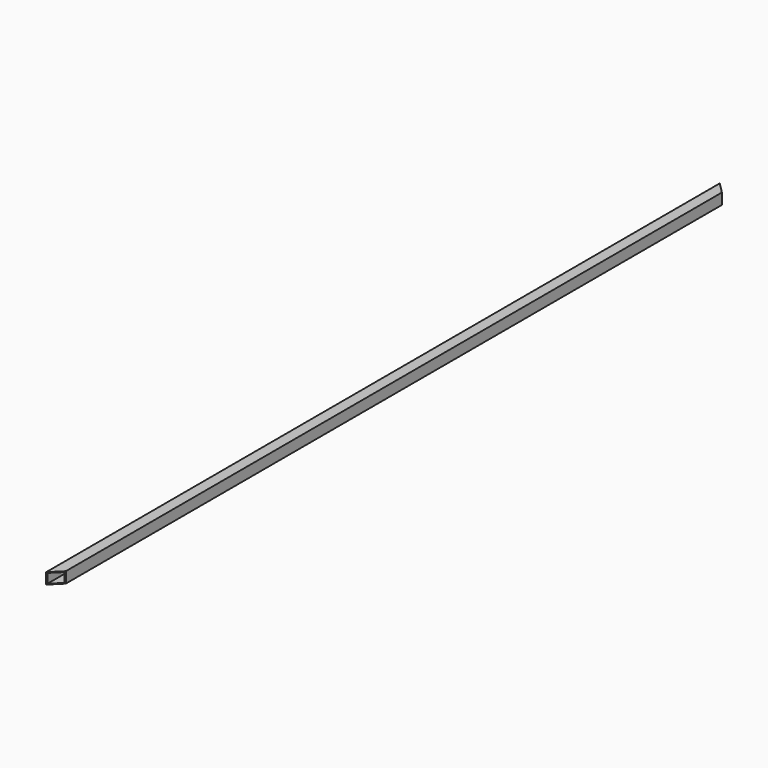
from build123d import *

# Parameters (mm, degrees)
F0_W     = 31.75
F0_H     = 31.75
F0_W_2   = 27.5336
F0_H_2   = 27.5336
F1_DEPTH = 2438.4
F3_DEPTH = 76.2


with BuildPart() as f1:
    # F0 (on Front) → F1 (new body)
    with BuildSketch(Plane.XZ):
        with Locations((-48.296367, 16.120737)):
            Rectangle(F0_W, F0_H)
        with Locations((-48.296367, 16.120737)):
            Rectangle(F0_W_2, F0_H_2, mode=Mode.SUBTRACT)
    extrude(amount=F1_DEPTH)

    # F2 (on face) → F3 (cut)
    with BuildSketch(Plane.XY.offset(31.995737)):
        Polygon((-32.421367, 0), (-64.171367, 0), (-32.421367, -31.75), align=None)
        Polygon((-32.421367, -2406.65), (-64.171367, -2438.4), (-32.421367, -2438.4), align=None)
    extrude(amount=-F3_DEPTH, mode=Mode.SUBTRACT)


solid = f1.part
